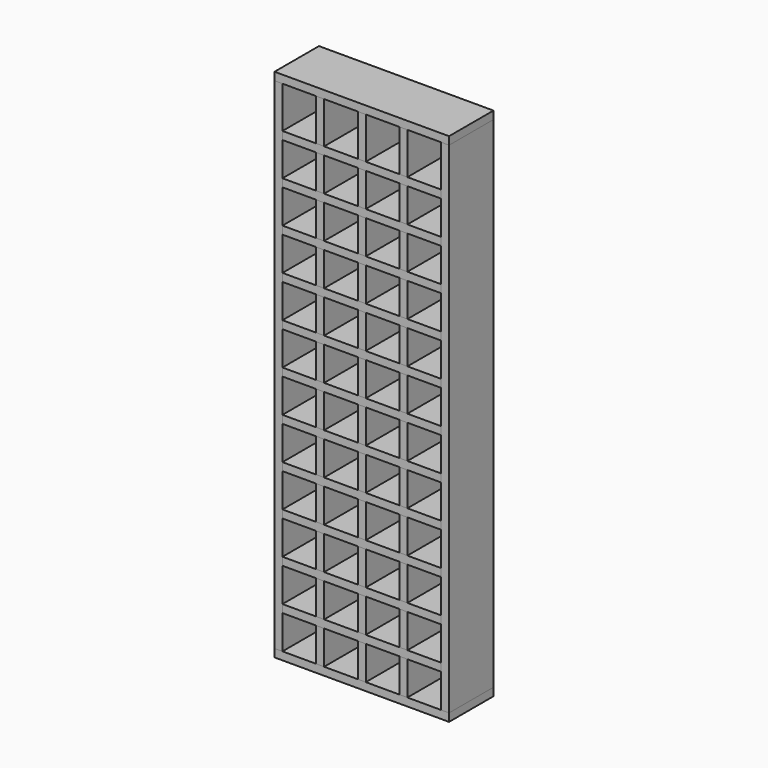
from build123d import *

# Parameters (mm, degrees)
F0_W     = 12.7
F0_H     = 88.9
F1_DEPTH = 800.1
F2_W     = 279.4
F2_H     = 88.9
F3_DEPTH = 12.7
F4_W     = 88.9
F4_H     = 12.7
F5_DEPTH = 254
F6_W     = 12.7
F6_H     = 88.9
F6_W_2   = 266.7
F7_DEPTH = 12.7


with BuildPart() as f1:
    # F0 (on Top) → F1 (new body)
    with BuildSketch(Plane.XY):
        with Locations((-133.35, 0)):
            Rectangle(F0_W, F0_H)
        with Locations((-66.675, 0)):
            Rectangle(F0_W, F0_H)
        Rectangle(F0_W, F0_H)
        with Locations((133.35, 0)):
            Rectangle(F0_W, F0_H)
        with Locations((66.675, 0)):
            Rectangle(F0_W, F0_H)
    extrude(amount=F1_DEPTH)


with BuildPart() as f3:
    # F2 (on Top) → F3 (new body)
    with BuildSketch(Plane.XY):
        Rectangle(F2_W, F2_H)
    extrude(amount=-F3_DEPTH)


with BuildPart() as f5:
    # F4 (on face) → F5 (new body)
    with BuildSketch(Plane.YZ.offset(-127)):
        with Locations((0, 727.075)):
            Rectangle(F4_W, F4_H)
        with Locations((0, 660.4)):
            Rectangle(F4_W, F4_H)
        with Locations((0, 593.725)):
            Rectangle(F4_W, F4_H)
        with Locations((0, 527.05)):
            Rectangle(F4_W, F4_H)
        with Locations((0, 460.375)):
            Rectangle(F4_W, F4_H)
        with Locations((0, 393.7)):
            Rectangle(F4_W, F4_H)
        with Locations((0, 327.025)):
            Rectangle(F4_W, F4_H)
        with Locations((0, 260.35)):
            Rectangle(F4_W, F4_H)
        with Locations((0, 193.675)):
            Rectangle(F4_W, F4_H)
        with Locations((0, 127)):
            Rectangle(F4_W, F4_H)
        with Locations((0, 60.325)):
            Rectangle(F4_W, F4_H)
    extrude(amount=F5_DEPTH)


with BuildPart() as f7:
    # F6 (on face) → F7 (new body)
    with BuildSketch(Plane.XY.offset(800.1)):
        with Locations((-133.35, 0)):
            Rectangle(F6_W, F6_H)
        with Locations((6.35, 0)):
            Rectangle(F6_W_2, F6_H)
    extrude(amount=F7_DEPTH)


solid = Compound([f1.part, f3.part, f5.part, f7.part])
